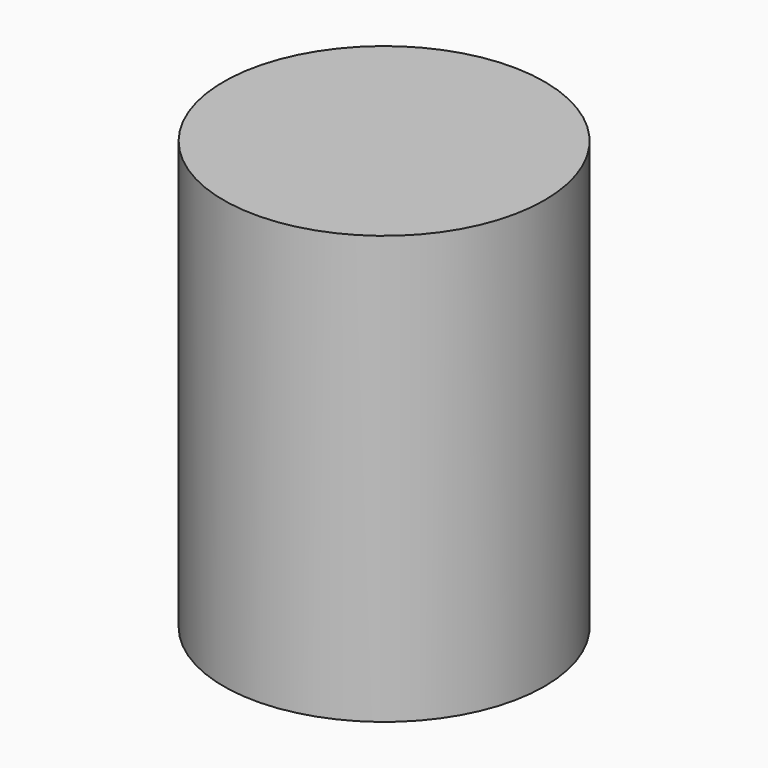
from build123d import *

# Parameters (mm, degrees)
F0_R     = 7.5
F1_DEPTH = 20
F2_R     = 3
F3_DEPTH = 25


with BuildPart() as f1:
    # F0 (on Top) → F1 (new body)
    with BuildSketch(Plane.XY):
        Circle(F0_R)
    extrude(amount=F1_DEPTH)

    # F2 (on Front) → F3 (cut)
    with BuildSketch(Plane.XZ):
        with Locations((0, 12.5)):
            Circle(F2_R)
    extrude(amount=-F3_DEPTH, mode=Mode.SUBTRACT)


solid = f1.part
